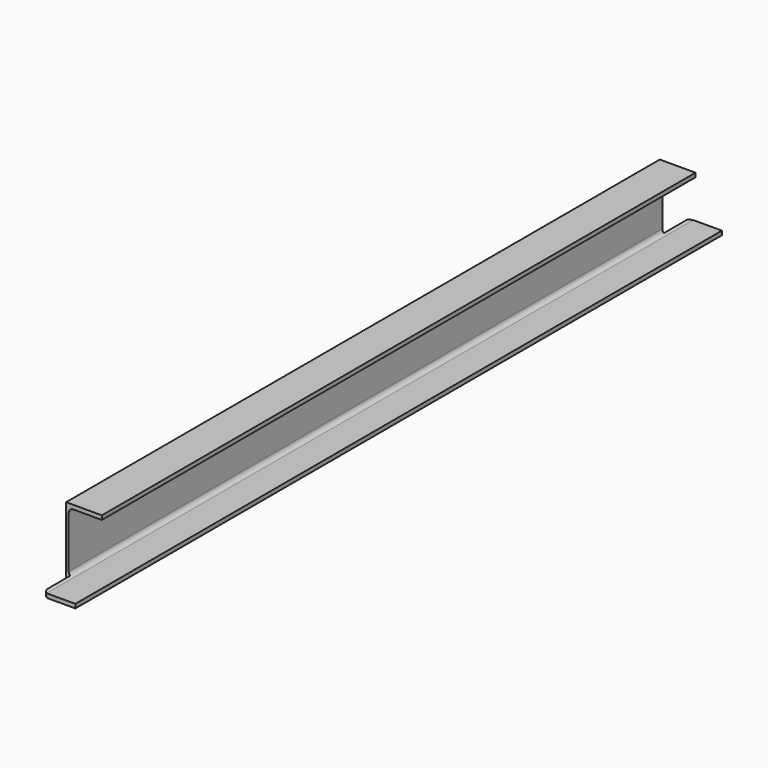
from build123d import *

# Parameters (mm, degrees)
F1_DEPTH = 1482.5
F3_DEPTH = 125.001
F5_DEPTH = 10


with BuildPart() as f1:
    # F0 (on Front) → F1 (new body)
    with BuildSketch(Plane.XZ):
        with BuildLine():
            Line((-25.16784, 62.5), (-25.16784, -62.5))
            Line((-25.16784, -62.5), (39.83216, -62.5))
            Line((39.83216, -62.5), (39.83216, -55))
            Line((39.83216, -55), (-12.46784, -55))
            ThreePointArc((-12.46784, -55), (-18.124695, -52.656854), (-20.46784, -47))
            Line((-20.46784, -47), (-20.46784, 47))
            ThreePointArc((-20.46784, 47), (-18.124695, 52.656854), (-12.46784, 55))
            Line((-12.46784, 55), (39.83216, 55))
            Line((39.83216, 55), (39.83216, 62.5))
            Line((39.83216, 62.5), (-25.16784, 62.5))
        make_face()
    extrude(amount=F1_DEPTH)

    # F2 (on face) → F3 (cut, through all)
    with BuildSketch(Plane.XY.offset(62.5)):
        with BuildLine():
            Line((39.83216, 0), (-25.16784, 0))
            Line((-25.16784, 0), (-25.16784, -65))
            Line((-25.16784, -65), (-17.66784, -65))
            Line((-17.66784, -65), (-17.66784, -12.7))
            ThreePointArc((-17.66784, -12.7), (-15.324695, -7.043146), (-9.66784, -4.7))
            Line((-9.66784, -4.7), (39.83216, -4.7))
            Line((39.83216, -4.7), (39.83216, 0))
        make_face()
        with BuildLine():
            Line((-17.66784, -1417.5), (-25.16784, -1417.5))
            Line((-25.16784, -1417.5), (-25.16784, -1482.5))
            Line((-25.16784, -1482.5), (39.83216, -1482.5))
            Line((39.83216, -1482.5), (39.83216, -1477.8))
            Line((39.83216, -1477.8), (-9.66784, -1477.8))
            ThreePointArc((-9.66784, -1477.8), (-15.324695, -1475.456854), (-17.66784, -1469.8))
            Line((-17.66784, -1469.8), (-17.66784, -1417.5))
        make_face()
    extrude(amount=-F3_DEPTH, mode=Mode.SUBTRACT)

    # F4 (on face) → F5 (cut)
    with BuildSketch(Plane.XY.offset(62.5)):
        with BuildLine():
            Line((-17.66784, -65), (39.83216, -65))
            Line((39.83216, -65), (39.83216, -4.7))
            Line((39.83216, -4.7), (-9.66784, -4.7))
            ThreePointArc((-9.66784, -4.7), (-15.324695, -7.043146), (-17.66784, -12.7))
            Line((-17.66784, -12.7), (-17.66784, -65))
        make_face()
        with BuildLine():
            Line((39.83216, -1417.5), (-17.66784, -1417.5))
            Line((-17.66784, -1417.5), (-17.66784, -1469.8))
            ThreePointArc((-17.66784, -1469.8), (-15.324695, -1475.456854), (-9.66784, -1477.8))
            Line((-9.66784, -1477.8), (39.83216, -1477.8))
            Line((39.83216, -1477.8), (39.83216, -1417.5))
        make_face()
    extrude(amount=-F5_DEPTH, mode=Mode.SUBTRACT)


solid = f1.part
